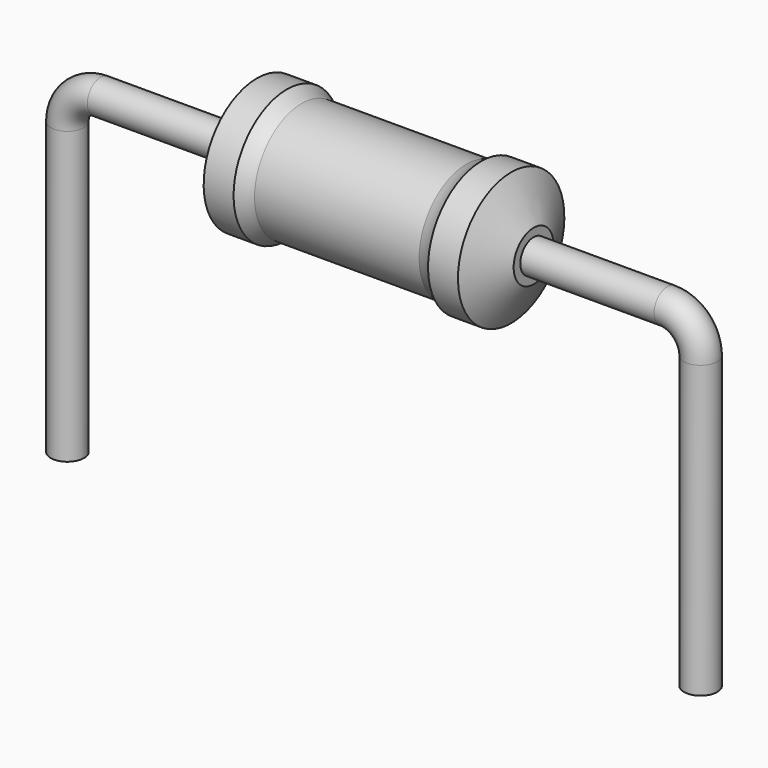
from build123d import *

# Parameters (mm, degrees)
SKETCH_R = 0.2


with BuildPart() as revolution:
    # Sketch002 → Revolution (revolve)
    with BuildSketch(Plane.XZ):
        with BuildLine():
            Line((2.28, 1.7), (2.64, 1.7))
            ThreePointArc((2.64, 1.7), (2.726276, 1.647551), (2.82, 1.61))
            Line((2.82, 1.61), (4.8, 1.61))
            ThreePointArc((4.8, 1.61), (4.893724, 1.647551), (4.98, 1.7))
            Line((4.98, 1.7), (5.34, 1.7))
            ThreePointArc((5.61, 1.2), (5.47529, 1.450157), (5.34, 1.7))
            Line((5.61, 0.9), (5.61, 1.2))
            Line((2.01, 0.9), (5.61, 0.9))
            Line((2.01, 0.9), (2.01, 1.2))
            ThreePointArc((2.28, 1.7), (2.14471, 1.450157), (2.01, 1.2))
        make_face()
    revolve(axis=Axis((2.01, 0, 0.9), (1, 0, 0)))


with BuildPart() as sweep_body:
    # Sweep: sweep along a path in Sketch001
    with BuildLine(Plane.XZ) as sweep_path:
        Line((0, -3), (0, 0.5))
        ThreePointArc((0, 0.5), (0.11716, 0.782846), (0.400008, 0.9))
        Line((0.400008, 0.9), (7.22, 0.9))
        ThreePointArc((7.22, 0.9), (7.502843, 0.782843), (7.62, 0.5))
        Line((7.62, 0.5), (7.62, -3))
    # Sketch → Sweep (sweep)
    with BuildSketch(Plane.XY.offset(-2)):
        Circle(SKETCH_R)
    sweep(path=sweep_path.line)


solid = Compound([revolution.part, sweep_body.part])
